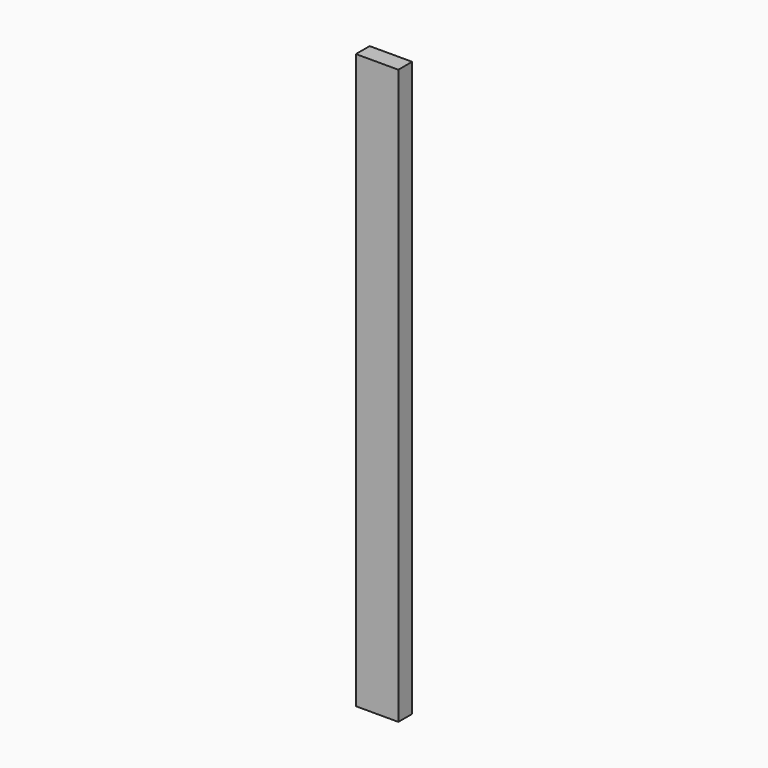
from build123d import *

# Parameters (mm, degrees)
F0_W     = 31.75
F0_H     = 3.81
F3_DEPTH = 254
F1_W     = 38.1
F1_H     = 8.89
F4_DEPTH = 381
F2_W     = 46.99
F2_H     = 19.05
F5_DEPTH = 635


with BuildPart() as f3:
    # F0 (on Top) → F3 (new body)
    with BuildSketch(Plane.XY):
        with Locations((-40.954639, 43.462584)):
            Rectangle(F0_W, F0_H)
    extrude(amount=F3_DEPTH)


with BuildPart() as f4:
    # F1 (on Top) → F4 (new body)
    with BuildSketch(Plane.XY):
        with Locations((-36.457989, 36.207102)):
            Rectangle(F1_W, F1_H)
    extrude(amount=F4_DEPTH)


with BuildPart() as f5:
    # F2 (on Top) → F5 (new body)
    with BuildSketch(Plane.XY):
        with Locations((-30.714471, 24.721595)):
            Rectangle(F2_W, F2_H)
    extrude(amount=F5_DEPTH)


solid = Compound([f3.part, f4.part, f5.part])
